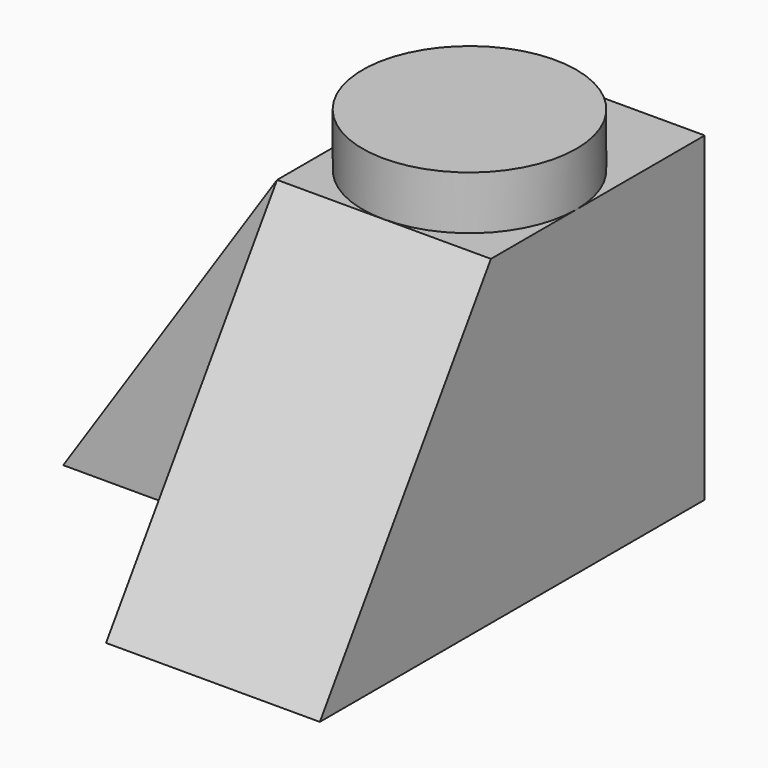
from build123d import *

# Parameters (mm, degrees)
F0_W     = 200
F0_H     = 300
F1_DEPTH = 200
F3_DEPTH = 200
F4_R     = 100
F5_DEPTH = 50
F7_DEPTH = 200
F9_DEPTH = 50


with BuildPart() as f1:
    # F0 (on Right) → F1 (new body)
    with BuildSketch(Plane.YZ):
        with Locations((100, 150)):
            Rectangle(F0_W, F0_H)
    extrude(amount=F1_DEPTH)

    # F2 (on Right) → F3 (join)
    with BuildSketch(Plane.YZ):
        Polygon((-200, 0), (0, 0), (0, 300), align=None)
    extrude(amount=F3_DEPTH)

    # F4 (on face) → F5 (join)
    with BuildSketch(Plane.XY.offset(300)):
        with Locations((100, 100)):
            Circle(F4_R)
    extrude(amount=F5_DEPTH)

    # F6 (on Front) → F7 (join)
    with BuildSketch(Plane.XZ):
        Polygon((-200, 0), (0, 0), (0, 300), align=None)
    extrude(amount=-F7_DEPTH)

    # F8 (on face) → F9 (join)
    with BuildSketch(Plane(origin=(0, 200, 0), x_dir=(-1, 0, 0), z_dir=(0, 1, 0))):
        Polygon((-100, 300), (-200, 300), (-200, 0), (0, 0), (0, 300), align=None)
    extrude(amount=F9_DEPTH)


solid = f1.part
